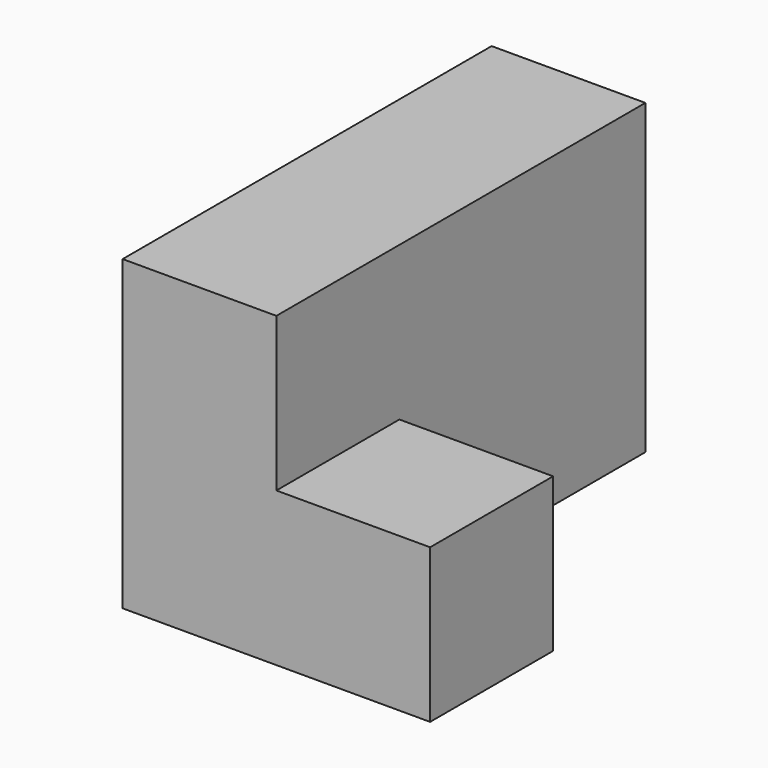
from build123d import *

# Parameters (mm, degrees)
BOX001_W     = 10
BOX001_H     = 10
BOX001_DEPTH = 10
BOX_W        = 10
BOX_H        = 30
BOX_DEPTH    = 20


with BuildPart() as cub001:
    # Box001 → Box001 (new body)
    with BuildSketch(Plane(origin=(10, 0, 0), x_dir=(1, 0, 0), z_dir=(0, 0, 1))):
        with Locations((5, 5)):
            Rectangle(BOX001_W, BOX001_H)
    extrude(amount=BOX001_DEPTH)


with BuildPart() as fusion:
    # Box → Box (new body)
    with BuildSketch(Plane.XY):
        with Locations((5, 15)):
            Rectangle(BOX_W, BOX_H)
    extrude(amount=BOX_DEPTH)

    # Fusion: union Cub001
    add(cub001.part)


solid = fusion.part
